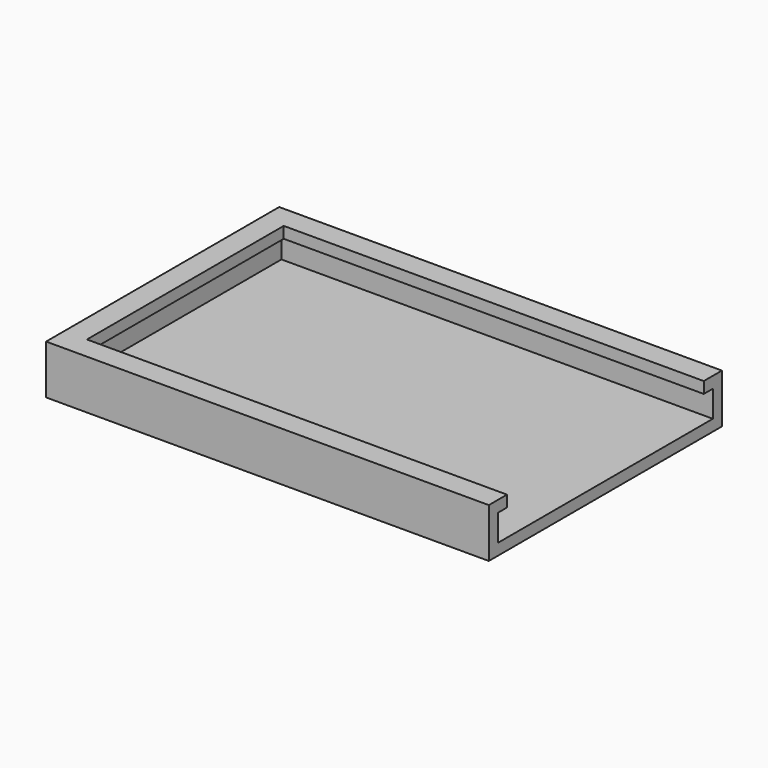
from build123d import *

# Parameters (mm, degrees)
F0_W      = 117
F0_H      = 77
F1_DEPTH  = 3
F3_DEPTH  = 10
F4_W      = 71
F4_H      = 3
F5_DEPTH  = 3
F6_W      = 111
F6_H      = 3
F7_DEPTH  = 3
F8_W      = 111
F8_H      = 3
F9_DEPTH  = 3
F10_W     = 7.5
F10_H     = 40
F11_DEPTH = 3.5
F13_DEPTH = 40
F14_DEPTH = 40


with BuildPart() as f1:
    # F0 (on Top) → F1 (new body)
    with BuildSketch(Plane.XY):
        with Locations((58.5, 38.5)):
            Rectangle(F0_W, F0_H)
        with Locations((58.5, 38.5)):
            Rectangle(F0_W, F0_H)
    extrude(amount=F1_DEPTH)

    # F2 (on face) → F3 (join)
    with BuildSketch(Plane.XY.offset(3)):
        Polygon((117, 0), (117, 3), (3, 3), (3, 74), (117, 74), (117, 77), (0, 77), (0, 0), align=None)
    extrude(amount=F3_DEPTH)

    # F4 (on face) → F5 (join)
    with BuildSketch(Plane.YZ.offset(3)):
        with Locations((38.5, 11.5)):
            Rectangle(F4_W, F4_H)
    extrude(amount=F5_DEPTH)

    # F6 (on face) → F7 (join)
    with BuildSketch(Plane(origin=(0, 3, 0), x_dir=(-1, 0, 0), z_dir=(0, 1, 0))):
        with Locations((-61.5, 11.5)):
            Rectangle(F6_W, F6_H)
    extrude(amount=F7_DEPTH)

    # F8 (on face) → F9 (join)
    with BuildSketch(Plane.XZ.offset(-74)):
        with Locations((61.5, 11.5)):
            Rectangle(F8_W, F8_H)
    extrude(amount=F9_DEPTH)

    # F10 (on face) → F11 (join)
    with BuildSketch(Plane(origin=(0, 0, 0), x_dir=(1, 0, 0), z_dir=(0, 0, -1))):
        with Locations((12.25, -57)):
            Rectangle(F10_W, F10_H)
    extrude(amount=F11_DEPTH)

    # F12 (on face) → F13 (cut)
    with BuildSketch(Plane(origin=(0, 77, 0), x_dir=(-1, 0, 0), z_dir=(0, 1, 0))):
        Polygon((-16, 0), (-16, -3.5), (-15, 0), align=None)
    extrude(amount=-F13_DEPTH, mode=Mode.SUBTRACT)

    # F12 (on face) → F14 (cut)
    with BuildSketch(Plane(origin=(0, 77, 0), x_dir=(-1, 0, 0), z_dir=(0, 1, 0))):
        Polygon((-9.5, 0), (-8.5, -3.5), (-8.5, 0), align=None)
    extrude(amount=-F14_DEPTH, mode=Mode.SUBTRACT)


solid = f1.part
